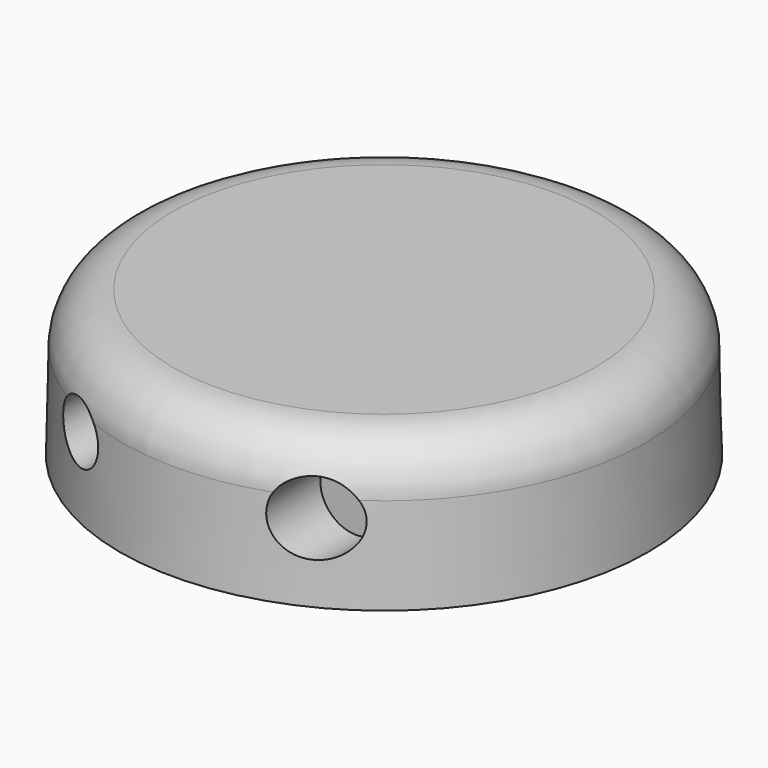
from build123d import *

# Parameters (mm, degrees)
FILLET047_R     = 7
SKETCH198_R     = 4.037815
SKETCH198_R_2   = 4.91935
POCKET063_DEPTH = 11.348059


with BuildPart() as part:
    # Sketch197 → Revolution001 (revolve)
    with BuildSketch(Plane.XZ):
        Polygon((0, 22.5), (36.347059, 22.5), (35.9, 42.5), (0, 42.5), align=None)
    revolve(axis=Axis((0, 0, 0), (0, 0, 1)))

    # Fillet047
    fillet047_edges = [part.edges().sort_by_distance(p)[0] for p in [
        (-35.9, 0, 42.5),
    ]]
    fillet(fillet047_edges, radius=FILLET047_R)

    # Sketch198 → Pocket063 (cut, through all)
    with BuildSketch(Plane.XZ.offset(25)):
        with Locations((-16.157519, 33.1)):
            Circle(SKETCH198_R)
        with Locations((16.157519, 33.1)):
            Circle(SKETCH198_R_2)
    extrude(amount=POCKET063_DEPTH, mode=Mode.SUBTRACT)


solid = part.part
